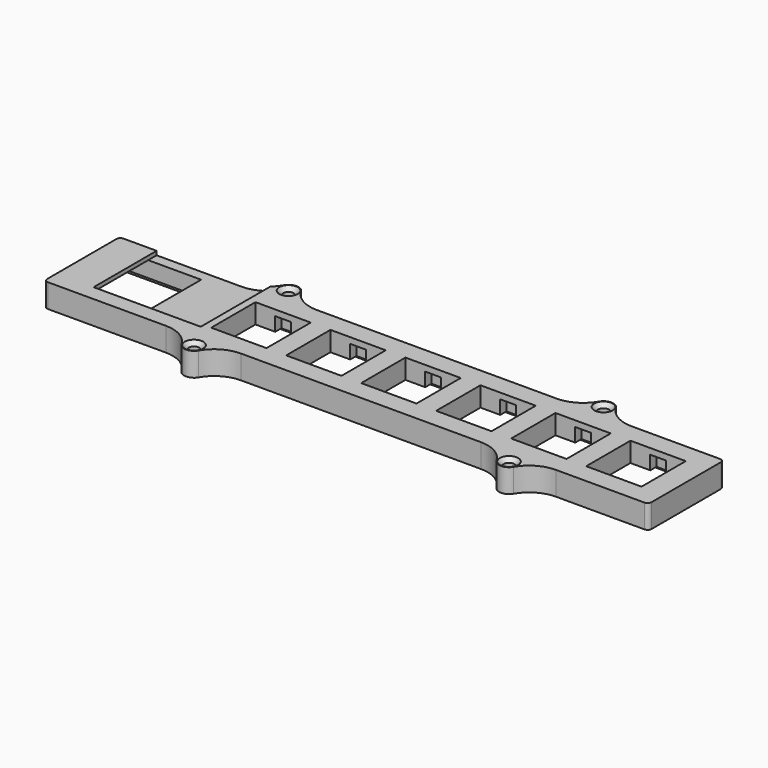
from build123d import *

# Parameters (mm, degrees)
PAD_DEPTH           = 5
PAD_DEPTH_BACK      = 1
SKETCH001_W         = 14.05
SKETCH001_H         = 14.05
POCKET_DEPTH        = 1.001
POCKET_DEPTH_BACK   = 5.001
SKETCH004_W         = 4
SKETCH004_H         = 18
POCKET002_DEPTH     = 3.5
LINEARPATTERN_COUNT = 6
LINEARPATTERN_PITCH = 19.05
POCKET001_DEPTH     = 1.001
SKETCH005_R         = 1.35
PAD001_DEPTH        = 5
PAD001_DEPTH_BACK   = 1
CHAMFER_SIZE        = 1
SKETCH006_W         = 20.77
SKETCH006_H         = 18.64
POCKET003_DEPTH     = 4
SKETCH007_W         = 12
SKETCH007_H         = 1
SKETCH007_W_2       = 4
POCKET004_DEPTH     = 3
SKETCH008_W         = 27.2
SKETCH008_H         = 28
POCKET005_DEPTH     = 1.001


with BuildPart() as part:
    # Sketch → Pad (new body, two sides)
    with BuildSketch(Plane.XY) as pad_sk:
        with BuildLine():
            Line((-45.5, 11), (-45.5, -11))
            ThreePointArc((-45.5, -11), (-45.207107, -11.707107), (-44.5, -12))
            Line((-44.5, -12), (107, -12))
            ThreePointArc((107, -12), (107.707107, -11.707107), (108, -11))
            Line((108, 11), (108, -11))
            ThreePointArc((108, 11), (107.707107, 11.707107), (107, 12))
            Line((-44.5, 12), (107, 12))
            ThreePointArc((-44.5, 12), (-45.207107, 11.707107), (-45.5, 11))
        make_face()
    extrude(amount=PAD_DEPTH)
    extrude(pad_sk.sketch, amount=-PAD_DEPTH_BACK)

    # Sketch001 → Pocket (cut, two sides)
    with BuildSketch(Plane.XY) as pocket_sk:
        Rectangle(SKETCH001_W, SKETCH001_H)
    pocket = extrude(amount=-POCKET_DEPTH, mode=Mode.SUBTRACT) + extrude(pocket_sk.sketch, amount=POCKET_DEPTH_BACK, mode=Mode.SUBTRACT)

    # Sketch004 → Pocket002 (cut)
    with BuildSketch(Plane.XY):
        Rectangle(SKETCH004_W, SKETCH004_H)
    pocket002 = extrude(amount=POCKET002_DEPTH, mode=Mode.SUBTRACT)

    # LinearPattern: Pocket, Pocket002 ×6
    with Locations(*[(i * LINEARPATTERN_PITCH, 0, 0) for i in range(1, LINEARPATTERN_COUNT)]):
        add(pocket, mode=Mode.SUBTRACT)
        add(pocket002, mode=Mode.SUBTRACT)

    # Sketch002 → Pocket001 (cut, through all)
    with BuildSketch(Plane.XY):
        with BuildLine():
            Line((-43.6, 9.1), (-43.6, -9.1))
            ThreePointArc((-43.6, -9.1), (-43.307107, -9.807107), (-42.6, -10.1))
            Line((-42.6, -10.1), (104.1, -10.1))
            ThreePointArc((104.1, -10.1), (104.807107, -9.807107), (105.1, -9.1))
            Line((105.1, 9.1), (105.1, -9.1))
            ThreePointArc((105.1, 9.1), (104.807107, 9.807107), (104.1, 10.1))
            Line((-42.6, 10.1), (104.1, 10.1))
            ThreePointArc((-42.6, 10.1), (-43.307107, 9.807107), (-43.6, 9.1))
        make_face()
    extrude(amount=-POCKET001_DEPTH, mode=Mode.SUBTRACT)

    # Sketch005 → Pad001 (join, two sides)
    with BuildSketch(Plane.XY) as pad001_sk:
        with BuildLine():
            Line((65.473721, 12), (84.526279, 12))
            ThreePointArc((77.165064, 16.25), (80.276279, 13.138784), (84.526279, 12))
            ThreePointArc((77.165064, 16.25), (75, 17.5), (72.834936, 16.25))
            ThreePointArc((65.473721, 12), (69.723721, 13.138784), (72.834936, 16.25))
        make_face()
        with Locations((75, 15)):
            Circle(SKETCH005_R, mode=Mode.SUBTRACT)
        with BuildLine():
            Line((-14.526279, 12), (4.526279, 12))
            ThreePointArc((-2.834936, 16.25), (0.276279, 13.138784), (4.526279, 12))
            ThreePointArc((-2.834936, 16.25), (-5, 17.5), (-7.165064, 16.25))
            ThreePointArc((-14.526279, 12), (-10.276279, 13.138784), (-7.165064, 16.25))
        make_face()
        with Locations((-5, 15)):
            Circle(SKETCH005_R, mode=Mode.SUBTRACT)
    pad001 = extrude(amount=PAD001_DEPTH) + extrude(pad001_sk.sketch, amount=-PAD001_DEPTH_BACK)

    # Mirrored: Pad001 across XZ
    add(pad001.mirror(Plane.XZ))

    # Chamfer
    chamfer_edges = [part.edges().sort_by_distance(p)[0] for p in [
        (73.65, 15, 5),
        (-6.35, 15, 5),
        (-6.35, -15, 5),
        (73.65, -15, 5),
    ]]
    chamfer(chamfer_edges, length=CHAMFER_SIZE)

    # Sketch006 → Pocket003 (cut)
    with BuildSketch(Plane.XY):
        with Locations((-33.035, 0)):
            Rectangle(SKETCH006_W, SKETCH006_H)
    extrude(amount=POCKET003_DEPTH, mode=Mode.SUBTRACT)

    # Sketch007 → Pocket004 (cut)
    with BuildSketch(Plane.XY):
        with Locations((-17, -8)):
            Rectangle(SKETCH007_W, SKETCH007_H)
        with Locations((85.5, -8)):
            Rectangle(SKETCH007_W_2, SKETCH007_H)
    extrude(amount=POCKET004_DEPTH, mode=Mode.SUBTRACT)

    # Sketch008 → Pocket005 (cut, through all)
    with BuildSketch(Plane.XY.offset(4)):
        with Locations((-22.5, 6)):
            Rectangle(SKETCH008_W, SKETCH008_H)
    extrude(amount=POCKET005_DEPTH, mode=Mode.SUBTRACT)


solid = part.part
